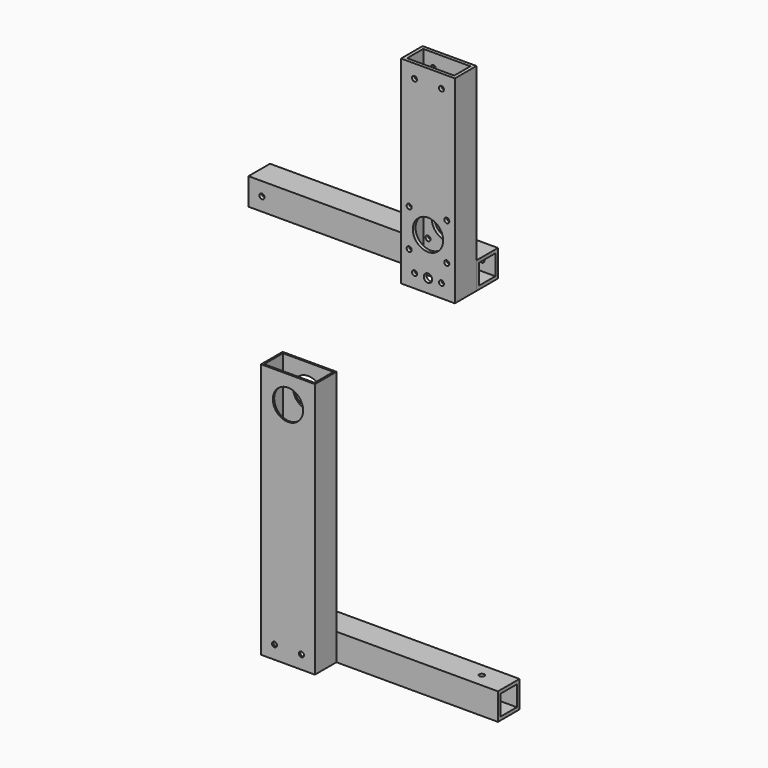
from build123d import *

# Parameters (mm, degrees)
F0_W          = 50.8
F0_H          = 25.4
F0_W_2        = 44.45
F0_H_2        = 19.05
F1_DEPTH      = 186.86018
F2_W          = 25.4
F2_H          = 25.4
F2_W_2        = 19.05
F2_H_2        = 19.05
F3_DEPTH      = 215.07958
F4_R          = 14.2875
F4_R_2        = 2.38125
F4_R_3        = 3.96875
F5_DEPTH      = 25.401
F5_DEPTH_BACK = 25.4
F0_W_3        = 47.625
F0_H_3        = 22.225
F6_DEPTH      = 241.3
F7_R          = 14.2875
F8_DEPTH      = 215.901
F9_W          = 25.4
F9_H          = 25.4
F9_W_2        = 19.05
F9_H_2        = 19.05
F10_DEPTH     = 203.2
F11_R         = 2.38125
F12_DEPTH     = 215.901
F13_R         = 2.38125
F14_DEPTH     = 25.401


with BuildPart() as f1:
    # F0 (on Top) → F1 (new body)
    with BuildSketch(Plane.XY):
        with Locations((-25.4, -12.7)):
            Rectangle(F0_W, F0_H)
        with Locations((-25.4, -12.7)):
            Rectangle(F0_W_2, F0_H_2, mode=Mode.SUBTRACT)
    extrude(amount=F1_DEPTH)


with BuildPart() as f3:
    # F2 (on Right) → F3 (new body)
    with BuildSketch(Plane.YZ):
        with Locations((12.7, 12.7)):
            Rectangle(F2_W, F2_H)
        with Locations((12.7, 12.7)):
            Rectangle(F2_W_2, F2_H_2, mode=Mode.SUBTRACT)
    extrude(amount=-F3_DEPTH)


with BuildPart() as f5_tool:
    # F4 (on face) → F5 (new body, two sides)
    with BuildSketch(Plane(origin=(0, 0, 0), x_dir=(-1, 0, 0), z_dir=(0, 1, 0))) as f5_sk:
        with Locations((25.4, 48.68545)):
            Circle(F4_R)
        with Locations((7.6708, 66.41465)):
            Circle(F4_R_2)
        with Locations((43.1292, 66.41465)):
            Circle(F4_R_2)
        with Locations((43.1292, 30.95625)):
            Circle(F4_R_2)
        with Locations((7.6708, 30.95625)):
            Circle(F4_R_2)
        with Locations((38.1, 12.7)):
            Circle(F4_R_2)
        with Locations((25.4, 12.7)):
            Circle(F4_R_3)
        with Locations((12.7, 12.7)):
            Circle(F4_R_2)
        with Locations((38.1, 174.16018)):
            Circle(F4_R_2)
        with Locations((12.7, 174.16018)):
            Circle(F4_R_2)
        with Locations((227.77958, 12.7)):
            Circle(F4_R_2)
        with Locations((202.37958, 12.7)):
            Circle(F4_R_2)
    extrude(amount=F5_DEPTH)
    extrude(f5_sk.sketch, amount=-F5_DEPTH_BACK)


with BuildPart() as f1_1:
    add(f1.part)

    # F5: cut by f5_tool
    add(f5_tool.part, mode=Mode.SUBTRACT)


with BuildPart() as f3_1:
    add(f3.part)

    # F5: cut by f5_tool
    add(f5_tool.part, mode=Mode.SUBTRACT)


with BuildPart() as f6:
    # F0 (on Top) → F6 (new body)
    with BuildSketch(Plane.XY):
        with Locations((-25.4, -177.8)):
            Rectangle(F0_W, F0_H)
        with Locations((-25.4, -177.8)):
            Rectangle(F0_W_3, F0_H_3, mode=Mode.SUBTRACT)
    extrude(amount=-F6_DEPTH)

    # F7 (on face) → F8 (cut, through all)
    with BuildSketch(Plane.XZ.offset(190.5)):
        with Locations((-25.4, -25.4)):
            Circle(F7_R)
    extrude(amount=-F8_DEPTH, mode=Mode.SUBTRACT)


with BuildPart() as f10:
    # F9 (on face) → F10 (new body)
    with BuildSketch(Plane(origin=(-50.8, 0, 0), x_dir=(0, -1, 0), z_dir=(-1, 0, 0))):
        with Locations((152.4, -228.6)):
            Rectangle(F9_W, F9_H)
        with Locations((152.4, -228.6)):
            Rectangle(F9_W_2, F9_H_2, mode=Mode.SUBTRACT)
    extrude(amount=-F10_DEPTH)


with BuildPart() as f12_tool:
    # F11 (on face) → F12 (new body, through all)
    with BuildSketch(Plane.XZ.offset(190.5)):
        with Locations((-38.1, -228.6)):
            Circle(F11_R)
        with Locations((-12.7, -228.6)):
            Circle(F11_R)
    extrude(amount=-F12_DEPTH)


with BuildPart() as f6_1:
    add(f6.part)

    # F12: cut by f12_tool
    add(f12_tool.part, mode=Mode.SUBTRACT)


with BuildPart() as f10_1:
    add(f10.part)

    # F12: cut by f12_tool
    add(f12_tool.part, mode=Mode.SUBTRACT)

    # F13 (on face) → F14 (cut, through all)
    with BuildSketch(Plane.XY.offset(-215.9)):
        with Locations((-25.4, -152.4)):
            Circle(F13_R)
        with Locations((127, -152.4)):
            Circle(F13_R)
    extrude(amount=-F14_DEPTH, mode=Mode.SUBTRACT)


solid = Compound([f1_1.part, f3_1.part, f6_1.part, f10_1.part])
